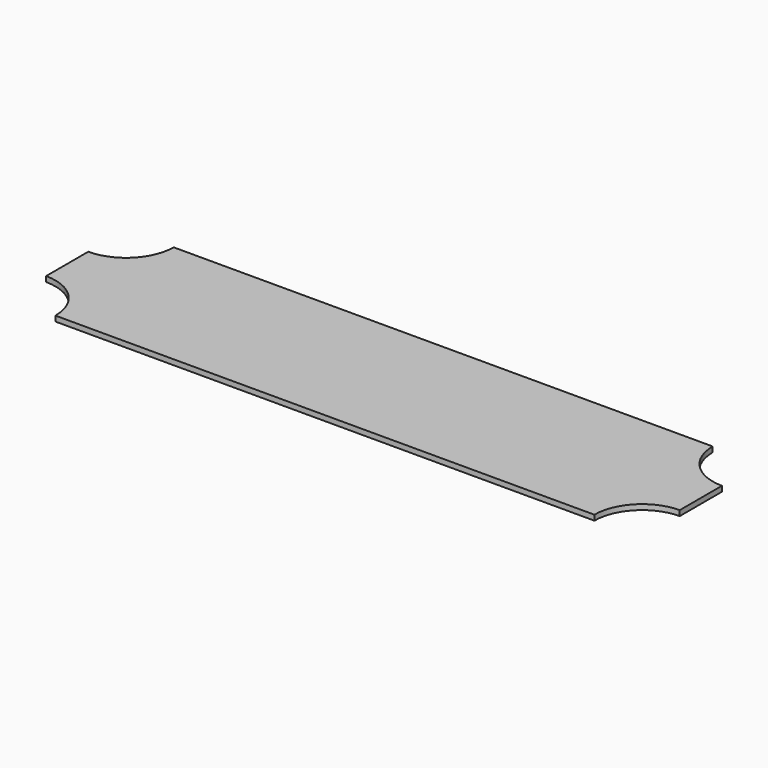
from build123d import *

# Parameters (mm, degrees)
F0_W     = 600
F0_H     = 140
F1_DEPTH = 5
F3_D     = 90


with BuildPart() as f1:
    # F0 (on Top) → F1 (new body)
    with BuildSketch(Plane.XY):
        with Locations((1.7854609799, 7.9861881584)):
            Rectangle(F0_W, F0_H)
    extrude(amount=F1_DEPTH)

    # F3 (through all)
    with Locations(Plane(origin=(0, 0, 0), x_dir=(1, 0, 0), z_dir=(0, 0, -1))):
        with Locations((-298.3217537403, -78.0398026109), (-298.3217537403, 61.8786737323), (302.098184824, -78.0398026109), (302.098184824, 61.8786737323)):
            Hole(F3_D / 2)


solid = f1.part
